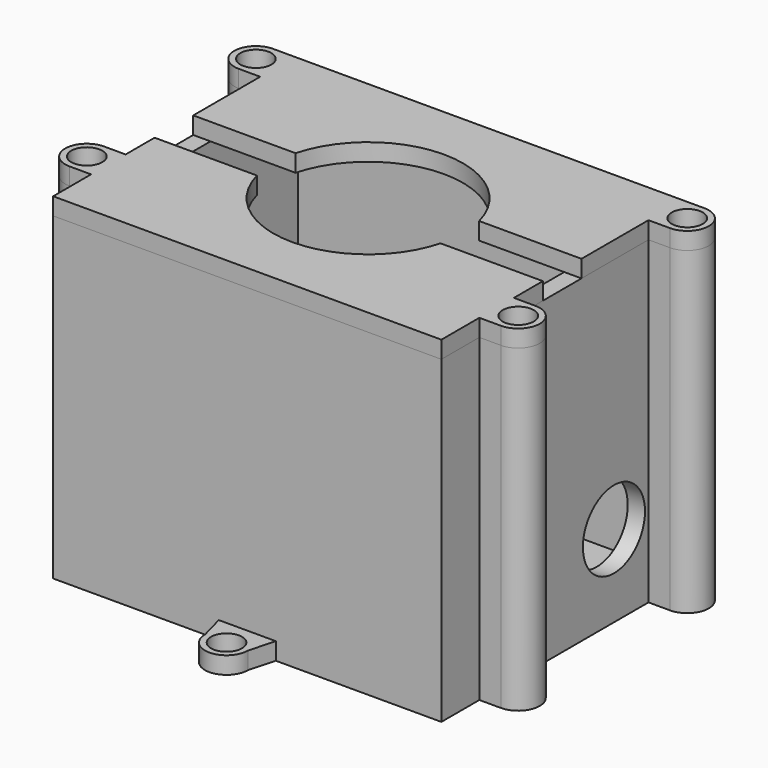
from build123d import *

# Parameters (mm, degrees)
F0_W      = 45
F0_H      = 35
F0_W_2    = 41
F0_H_2    = 31
F1_DEPTH  = 2
F2_DEPTH  = 35
F3_W      = 41
F3_H      = 15
F4_DEPTH  = 24
F5_R      = 4.5
F6_DEPTH  = 25
F7_R      = 1.8
F8_DEPTH  = 2
F10_R     = 1.3
F11_DEPTH = 37
F12_R     = 1.8
F13_DEPTH = 2
F14_DEPTH = 2


with BuildPart() as f1:
    # F0 (on Top) → F1 (new body)
    with BuildSketch(Plane.XY):
        Rectangle(F0_W, F0_H)
        Rectangle(F0_W_2, F0_H_2, mode=Mode.SUBTRACT)
        Rectangle(F0_W_2, F0_H_2)
    extrude(amount=-F1_DEPTH)

    # F0 (on Top) → F2 (join)
    with BuildSketch(Plane.XY):
        Rectangle(F0_W, F0_H)
        Rectangle(F0_W_2, F0_H_2, mode=Mode.SUBTRACT)
    extrude(amount=F2_DEPTH)

    # F3 (on Top) → F4 (join)
    with BuildSketch(Plane.XY):
        with Locations((0, -8)):
            Rectangle(F3_W, F3_H)
    extrude(amount=F4_DEPTH)

    # F5 (on Right) → F6 (cut, symmetric)
    with BuildSketch(Plane.YZ):
        with Locations((7.5, 7.5)):
            Circle(F5_R)
    extrude(amount=F6_DEPTH, both=True, mode=Mode.SUBTRACT)

    # F7 (on Top) → F8 (join)
    with BuildSketch(Plane.XY):
        with BuildLine():
            Line((-3.3038475773, -17.5), (-2.5, -20.5))
            ThreePointArc((-2.5, -20.5), (0, -23), (2.5, -20.5))
            Line((2.5, -20.5), (3.3038475773, -17.5))
            Line((3.3038475773, -17.5), (-3.3038475773, -17.5))
        make_face()
        with Locations((0, -20.5)):
            Circle(F7_R, mode=Mode.SUBTRACT)
        with BuildLine():
            Line((3.3038475773, 17.5), (2.5, 20.5))
            ThreePointArc((2.5, 20.5), (0, 23), (-2.5, 20.5))
            Line((-2.5, 20.5), (-3.3038475773, 17.5))
            Line((-3.3038475773, 17.5), (3.3038475773, 17.5))
        make_face()
        with Locations((0, 20.4217750579)):
            Circle(F7_R, mode=Mode.SUBTRACT)
    extrude(amount=-F8_DEPTH)

    # F10 (on face) → F11 (join, through all)
    with BuildSketch(Plane(origin=(0, 0, -2), x_dir=(1, 0, 0), z_dir=(0, 0, -1))):
        with BuildLine():
            Line((-22.5, -12.5), (-25, -12.5))
            ThreePointArc((-25, -12.5), (-27.5, -15), (-25, -17.5))
            Line((-25, -17.5), (-22.5, -17.5))
            Line((-22.5, -17.5), (-22.5, -12.5))
        make_face()
        with Locations((-25, -15)):
            Circle(F10_R, mode=Mode.SUBTRACT)
        with BuildLine():
            Line((22.5, -12.5), (22.5, -17.5))
            Line((22.5, -17.5), (25, -17.5))
            ThreePointArc((25, -17.5), (27.5, -15), (25, -12.5))
            Line((25, -12.5), (22.5, -12.5))
        make_face()
        with Locations((25, -15)):
            Circle(F10_R, mode=Mode.SUBTRACT)
        with BuildLine():
            Line((22.5, 12), (22.5, 7))
            Line((22.5, 7), (25, 7))
            ThreePointArc((25, 7), (27.5, 9.5), (25, 12))
            Line((25, 12), (22.5, 12))
        make_face()
        with Locations((25, 9.5)):
            Circle(F10_R, mode=Mode.SUBTRACT)
        with BuildLine():
            Line((-25, 7), (-22.5, 7))
            Line((-22.5, 7), (-22.5, 12))
            Line((-22.5, 12), (-25, 12))
            ThreePointArc((-25, 12), (-27.5, 9.5), (-25, 7))
        make_face()
        with Locations((-25, 9.5)):
            Circle(F10_R, mode=Mode.SUBTRACT)
    extrude(amount=-F11_DEPTH)


with BuildPart() as f13:
    # F12 (on face) → F13 (new body)
    with BuildSketch(Plane.XY.offset(35)):
        with BuildLine():
            Line((-25, 12.5), (-22.5, 12.5))
            Line((-22.5, 12.5), (-22.5, 17.5))
            Line((-22.5, 17.5), (-25, 17.5))
            ThreePointArc((-25, 17.5), (-27.5, 15), (-25, 12.5))
        make_face()
        with Locations((-25, 15)):
            Circle(F12_R, mode=Mode.SUBTRACT)
        Polygon((-22.5, 12.5), (-22.5, 2.8), (-20.5, 2.8), (-20.5, 15.5), (20.5, 15.5), (20.5, 2.8), (22.5, 2.8), (22.5, 12.5), (22.5, 17.5), (-22.5, 17.5), align=None)
        with BuildLine():
            Line((-20.5, 15.5), (-20.5, 2.8))
            Line((-20.5, 2.8), (-10.6376689176, 2.8))
            ThreePointArc((-10.6376689176, 2.8), (0, 11), (10.6376689176, 2.8))
            Line((10.6376689176, 2.8), (20.5, 2.8))
            Line((20.5, 2.8), (20.5, 15.5))
            Line((20.5, 15.5), (-20.5, 15.5))
        make_face()
        with BuildLine():
            Line((22.5, 17.5), (22.5, 12.5))
            Line((22.5, 12.5), (25, 12.5))
            ThreePointArc((25, 12.5), (27.5, 15), (25, 17.5))
            Line((25, 17.5), (22.5, 17.5))
        make_face()
        with Locations((25, 15)):
            Circle(F12_R, mode=Mode.SUBTRACT)
    extrude(amount=F13_DEPTH)


with BuildPart() as f14:
    # F12 (on face) → F14 (new body)
    with BuildSketch(Plane.XY.offset(35)):
        with BuildLine():
            Line((-10.6376689176, -2.8), (-20.5, -2.8))
            Line((-20.5, -2.8), (-20.5, -15.5))
            Line((-20.5, -15.5), (20.5, -15.5))
            Line((20.5, -15.5), (20.5, -2.8))
            Line((20.5, -2.8), (10.6376689176, -2.8))
            ThreePointArc((10.6376689176, -2.8), (0, -11), (-10.6376689176, -2.8))
        make_face()
        Polygon((-22.5, -12), (-22.5, -17.5), (22.5, -17.5), (22.5, -12), (22.5, -7), (22.5, -2.8), (20.5, -2.8), (20.5, -15.5), (-20.5, -15.5), (-20.5, -2.8), (-22.5, -2.8), (-22.5, -7), align=None)
        with BuildLine():
            Line((-25, -12), (-22.5, -12))
            Line((-22.5, -12), (-22.5, -7))
            Line((-22.5, -7), (-25, -7))
            ThreePointArc((-25, -7), (-27.5, -9.5), (-25, -12))
        make_face()
        with Locations((-25, -9.5)):
            Circle(F12_R, mode=Mode.SUBTRACT)
        with BuildLine():
            Line((22.5, -7), (22.5, -12))
            Line((22.5, -12), (25, -12))
            ThreePointArc((25, -12), (27.5, -9.5), (25, -7))
            Line((25, -7), (22.5, -7))
        make_face()
        with Locations((25, -9.5)):
            Circle(F12_R, mode=Mode.SUBTRACT)
    extrude(amount=F14_DEPTH)


solid = Compound([f1.part, f13.part, f14.part])
